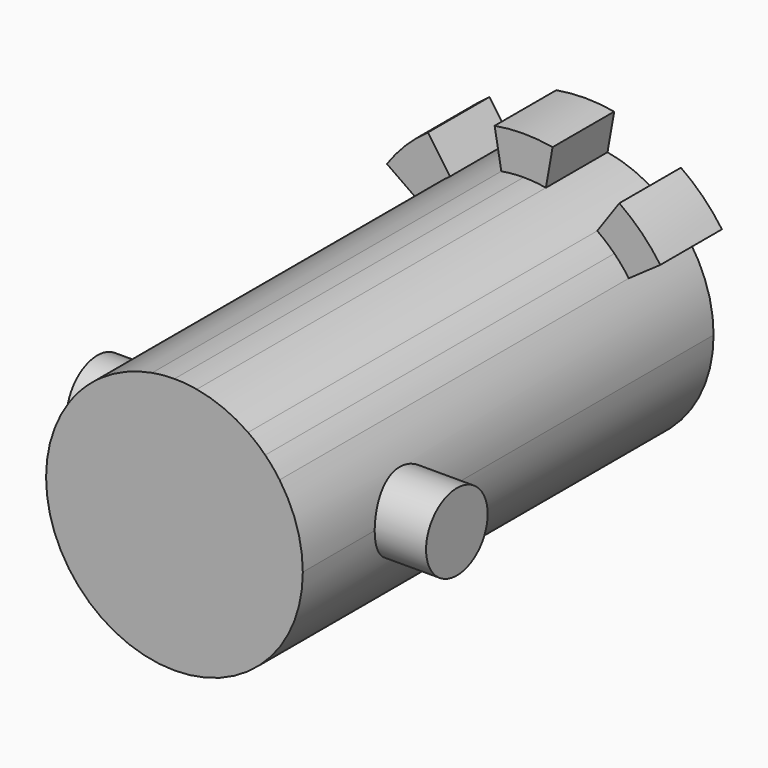
from build123d import *

# Parameters (mm, degrees)
F1_DEPTH      = 20
F2_DEPTH      = 1.93
F3_DEPTH      = 3
F4_R          = 1.5
F5_DEPTH      = 7
F5_DEPTH_BACK = 7


with BuildPart() as f1:
    # F0 (on Front) → F1 (new body)
    with BuildSketch(Plane.XZ):
        with BuildLine():
            Line((0, 0), (3.9, 0))
            ThreePointArc((3.9, 0), (3.7194961079, 1.1727526181), (3.1946929727, 2.2369481018))
            Line((3.1946929727, 2.2369481018), (0, 0))
        make_face()
        with BuildLine():
            Line((0, 0), (3.1946929727, 2.2369481018))
            ThreePointArc((3.1946929727, 2.2369481018), (2.9875733282, 2.5068716778), (2.7577164466, 2.7577164466))
            Line((2.7577164466, 2.7577164466), (0, 0))
        make_face()
        with BuildLine():
            Line((2.2369481018, 3.1946929727), (0, 0))
            Line((0, 0), (2.7577164466, 2.7577164466))
            ThreePointArc((2.7577164466, 2.7577164466), (2.5068716778, 2.9875733282), (2.2369481018, 3.1946929727))
        make_face()
        with BuildLine():
            Line((0.6772278929, 3.8407502367), (0, 0))
            Line((0, 0), (2.2369481018, 3.1946929727))
            ThreePointArc((2.2369481018, 3.1946929727), (1.4924653862, 3.6031301768), (0.6772278929, 3.8407502367))
        make_face()
        with BuildLine():
            Line((0, 3.9), (0, 0))
            Line((0, 0), (0.6772278929, 3.8407502367))
            ThreePointArc((0.6772278929, 3.8407502367), (0.3399073967, 3.8851593226), (0, 3.9))
        make_face()
        with BuildLine():
            Line((-0.6772278929, 3.8407502367), (0, 0))
            Line((0, 0), (0, 3.9))
            ThreePointArc((0, 3.9), (-0.3399073967, 3.8851593226), (-0.6772278929, 3.8407502367))
        make_face()
        with BuildLine():
            Line((-2.2369481018, 3.1946929727), (0, 0))
            Line((0, 0), (-0.6772278929, 3.8407502367))
            ThreePointArc((-0.6772278929, 3.8407502367), (-1.4924653862, 3.6031301768), (-2.2369481018, 3.1946929727))
        make_face()
        with BuildLine():
            Line((-2.7577164466, 2.7577164466), (0, 0))
            Line((0, 0), (-2.2369481018, 3.1946929727))
            ThreePointArc((-2.2369481018, 3.1946929727), (-2.5068716778, 2.9875733282), (-2.7577164466, 2.7577164466))
        make_face()
        with BuildLine():
            Line((-3.1946929727, 2.2369481018), (0, 0))
            Line((0, 0), (-2.7577164466, 2.7577164466))
            ThreePointArc((-2.7577164466, 2.7577164466), (-2.9875733282, 2.5068716778), (-3.1946929727, 2.2369481018))
        make_face()
        with BuildLine():
            ThreePointArc((-3.1946929727, 2.2369481018), (-3.7194961079, 1.1727526181), (-3.9, 0))
            Line((-3.9, 0), (0, 0))
            Line((0, 0), (-3.1946929727, 2.2369481018))
        make_face()
        with BuildLine():
            ThreePointArc((-3.9, 0), (0, -3.9), (3.9, 0))
            Line((3.9, 0), (0, 0))
            Line((0, 0), (-3.9, 0))
        make_face()
        with BuildLine():
            ThreePointArc((3.1946929727, 2.2369481018), (3.7194961079, 1.1727526181), (3.9, 0))
            Line((3.9, 0), (5, 0))
            ThreePointArc((5, 0), (4.7685847537, 1.5035289975), (4.0957602214, 2.8678821818))
            Line((4.0957602214, 2.8678821818), (3.1946929727, 2.2369481018))
        make_face()
        with BuildLine():
            ThreePointArc((2.7577164466, 2.7577164466), (2.9875733282, 2.5068716778), (3.1946929727, 2.2369481018))
            Line((3.1946929727, 2.2369481018), (4.0957602214, 2.8678821818))
            ThreePointArc((4.0957602214, 2.8678821818), (3.8302222156, 3.2139380484), (3.5355339059, 3.5355339059))
            Line((3.5355339059, 3.5355339059), (2.7577164466, 2.7577164466))
        make_face()
        with BuildLine():
            ThreePointArc((2.2369481018, 3.1946929727), (2.5068716778, 2.9875733282), (2.7577164466, 2.7577164466))
            Line((2.7577164466, 2.7577164466), (3.5355339059, 3.5355339059))
            ThreePointArc((3.5355339059, 3.5355339059), (3.2139380484, 3.8302222156), (2.8678821818, 4.0957602214))
            Line((2.8678821818, 4.0957602214), (2.2369481018, 3.1946929727))
        make_face()
        with BuildLine():
            ThreePointArc((0.6772278929, 3.8407502367), (1.4924653862, 3.6031301768), (2.2369481018, 3.1946929727))
            Line((2.2369481018, 3.1946929727), (2.8678821818, 4.0957602214))
            ThreePointArc((2.8678821818, 4.0957602214), (1.9134171618, 4.6193976626), (0.8682408883, 4.9240387651))
            Line((0.8682408883, 4.9240387651), (0.6772278929, 3.8407502367))
        make_face()
        with BuildLine():
            Line((0, 5), (0, 3.9))
            ThreePointArc((0, 3.9), (0.3399073967, 3.8851593226), (0.6772278929, 3.8407502367))
            Line((0.6772278929, 3.8407502367), (0.8682408883, 4.9240387651))
            ThreePointArc((0.8682408883, 4.9240387651), (0.4357787137, 4.9809734905), (0, 5))
        make_face()
        with BuildLine():
            ThreePointArc((-0.6772278929, 3.8407502367), (-0.3399073967, 3.8851593226), (0, 3.9))
            Line((0, 3.9), (0, 5))
            ThreePointArc((0, 5), (-0.4357787137, 4.9809734905), (-0.8682408883, 4.9240387651))
            Line((-0.8682408883, 4.9240387651), (-0.6772278929, 3.8407502367))
        make_face()
        with BuildLine():
            ThreePointArc((-2.2369481018, 3.1946929727), (-1.4924653862, 3.6031301768), (-0.6772278929, 3.8407502367))
            Line((-0.6772278929, 3.8407502367), (-0.8682408883, 4.9240387651))
            ThreePointArc((-0.8682408883, 4.9240387651), (-1.9134171618, 4.6193976626), (-2.8678821818, 4.0957602214))
            Line((-2.8678821818, 4.0957602214), (-2.2369481018, 3.1946929727))
        make_face()
        with BuildLine():
            Line((-3.5355339059, 3.5355339059), (-2.7577164466, 2.7577164466))
            ThreePointArc((-2.7577164466, 2.7577164466), (-2.5068716778, 2.9875733282), (-2.2369481018, 3.1946929727))
            Line((-2.2369481018, 3.1946929727), (-2.8678821818, 4.0957602214))
            ThreePointArc((-2.8678821818, 4.0957602214), (-3.2139380484, 3.8302222156), (-3.5355339059, 3.5355339059))
        make_face()
        with BuildLine():
            Line((-4.0957602214, 2.8678821818), (-3.1946929727, 2.2369481018))
            ThreePointArc((-3.1946929727, 2.2369481018), (-2.9875733282, 2.5068716778), (-2.7577164466, 2.7577164466))
            Line((-2.7577164466, 2.7577164466), (-3.5355339059, 3.5355339059))
            ThreePointArc((-3.5355339059, 3.5355339059), (-3.8302222156, 3.2139380484), (-4.0957602214, 2.8678821818))
        make_face()
        with BuildLine():
            Line((-5, 0), (-3.9, 0))
            ThreePointArc((-3.9, 0), (-3.7194961079, 1.1727526181), (-3.1946929727, 2.2369481018))
            Line((-3.1946929727, 2.2369481018), (-4.0957602214, 2.8678821818))
            ThreePointArc((-4.0957602214, 2.8678821818), (-4.7685847537, 1.5035289975), (-5, 0))
        make_face()
        with BuildLine():
            Line((5, 0), (3.9, 0))
            ThreePointArc((3.9, 0), (0, -3.9), (-3.9, 0))
            Line((-3.9, 0), (-5, 0))
            ThreePointArc((-5, 0), (0, -5), (5, 0))
        make_face()
    extrude(amount=F1_DEPTH)

    # F0 (on Front) → F2 (cut)
    with BuildSketch(Plane.XZ):
        with BuildLine():
            Line((0, 0), (3.9, 0))
            ThreePointArc((3.9, 0), (3.7194961079, 1.1727526181), (3.1946929727, 2.2369481018))
            Line((3.1946929727, 2.2369481018), (0, 0))
        make_face()
        with BuildLine():
            Line((0, 0), (3.1946929727, 2.2369481018))
            ThreePointArc((3.1946929727, 2.2369481018), (2.9875733282, 2.5068716778), (2.7577164466, 2.7577164466))
            Line((2.7577164466, 2.7577164466), (0, 0))
        make_face()
        with BuildLine():
            Line((2.2369481018, 3.1946929727), (0, 0))
            Line((0, 0), (2.7577164466, 2.7577164466))
            ThreePointArc((2.7577164466, 2.7577164466), (2.5068716778, 2.9875733282), (2.2369481018, 3.1946929727))
        make_face()
        with BuildLine():
            Line((0.6772278929, 3.8407502367), (0, 0))
            Line((0, 0), (2.2369481018, 3.1946929727))
            ThreePointArc((2.2369481018, 3.1946929727), (1.4924653862, 3.6031301768), (0.6772278929, 3.8407502367))
        make_face()
        with BuildLine():
            Line((0, 3.9), (0, 0))
            Line((0, 0), (0.6772278929, 3.8407502367))
            ThreePointArc((0.6772278929, 3.8407502367), (0.3399073967, 3.8851593226), (0, 3.9))
        make_face()
        with BuildLine():
            Line((-0.6772278929, 3.8407502367), (0, 0))
            Line((0, 0), (0, 3.9))
            ThreePointArc((0, 3.9), (-0.3399073967, 3.8851593226), (-0.6772278929, 3.8407502367))
        make_face()
        with BuildLine():
            Line((-2.2369481018, 3.1946929727), (0, 0))
            Line((0, 0), (-0.6772278929, 3.8407502367))
            ThreePointArc((-0.6772278929, 3.8407502367), (-1.4924653862, 3.6031301768), (-2.2369481018, 3.1946929727))
        make_face()
        with BuildLine():
            Line((-2.7577164466, 2.7577164466), (0, 0))
            Line((0, 0), (-2.2369481018, 3.1946929727))
            ThreePointArc((-2.2369481018, 3.1946929727), (-2.5068716778, 2.9875733282), (-2.7577164466, 2.7577164466))
        make_face()
        with BuildLine():
            Line((-3.1946929727, 2.2369481018), (0, 0))
            Line((0, 0), (-2.7577164466, 2.7577164466))
            ThreePointArc((-2.7577164466, 2.7577164466), (-2.9875733282, 2.5068716778), (-3.1946929727, 2.2369481018))
        make_face()
        with BuildLine():
            ThreePointArc((-3.1946929727, 2.2369481018), (-3.7194961079, 1.1727526181), (-3.9, 0))
            Line((-3.9, 0), (0, 0))
            Line((0, 0), (-3.1946929727, 2.2369481018))
        make_face()
        with BuildLine():
            ThreePointArc((-3.9, 0), (0, -3.9), (3.9, 0))
            Line((3.9, 0), (0, 0))
            Line((0, 0), (-3.9, 0))
        make_face()
    extrude(amount=F2_DEPTH, mode=Mode.SUBTRACT)

    # F0 (on Front) → F3 (join)
    with BuildSketch(Plane.XZ):
        with BuildLine():
            ThreePointArc((3.5355339059, 3.5355339059), (3.8302222156, 3.2139380484), (4.0957602214, 2.8678821818))
            Line((4.0957602214, 2.8678821818), (5.3244882879, 3.7282468363))
            ThreePointArc((5.3244882879, 3.7282468363), (4.5961940777, 4.5961940777), (3.7282468363, 5.3244882879))
            Line((3.7282468363, 5.3244882879), (2.8678821818, 4.0957602214))
            ThreePointArc((2.8678821818, 4.0957602214), (3.2139380484, 3.8302222156), (3.5355339059, 3.5355339059))
        make_face()
        with BuildLine():
            ThreePointArc((-0.8682408883, 4.9240387651), (-0.4357787137, 4.9809734905), (0, 5))
            ThreePointArc((0, 5), (0.4357787137, 4.9809734905), (0.8682408883, 4.9240387651))
            Line((0.8682408883, 4.9240387651), (1.1287131548, 6.4012503946))
            ThreePointArc((1.1287131548, 6.4012503946), (0, 6.5), (-1.1287131548, 6.4012503946))
            Line((-1.1287131548, 6.4012503946), (-0.8682408883, 4.9240387651))
        make_face()
        with BuildLine():
            Line((-5.3244882879, 3.7282468363), (-4.0957602214, 2.8678821818))
            ThreePointArc((-4.0957602214, 2.8678821818), (-3.8302222156, 3.2139380484), (-3.5355339059, 3.5355339059))
            ThreePointArc((-3.5355339059, 3.5355339059), (-3.2139380484, 3.8302222156), (-2.8678821818, 4.0957602214))
            Line((-2.8678821818, 4.0957602214), (-3.7282468363, 5.3244882879))
            ThreePointArc((-3.7282468363, 5.3244882879), (-4.5961940777, 4.5961940777), (-5.3244882879, 3.7282468363))
        make_face()
    extrude(amount=F3_DEPTH)

    # F4 (on Right) → F5 (join, two sides)
    with BuildSketch(Plane.YZ) as f5_sk:
        with Locations((-15, 0)):
            Circle(F4_R)
    extrude(amount=F5_DEPTH)
    extrude(f5_sk.sketch, amount=-F5_DEPTH_BACK)


solid = f1.part
